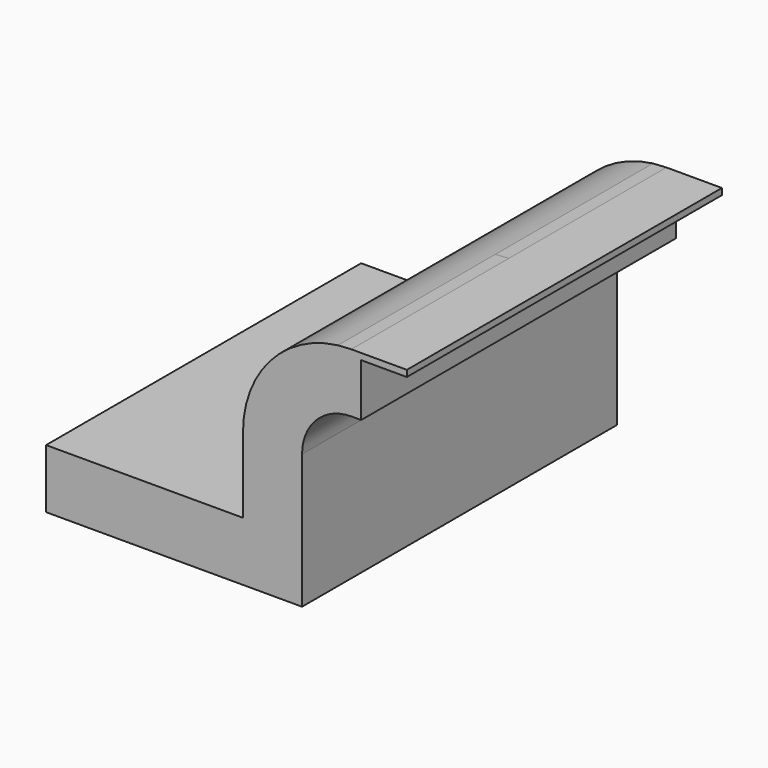
from build123d import *

# Parameters (mm, degrees)
F1_DEPTH = 63.5


with BuildPart() as f1:
    # F0 (on Front) → F1 (new body, symmetric)
    with BuildSketch(Plane.XZ):
        Polygon((-41.275, 9.525), (-41.275, -9.525), (41.275, -9.525), (41.275, 9.525), (22.225, 9.525), align=None)
        with BuildLine():
            Line((22.225, 9.525), (41.275, 9.525))
            Line((41.275, 9.525), (41.275, 33.799117))
            ThreePointArc((41.275, 33.799117), (45.92468, 45.024437), (57.15, 49.674117))
            Line((57.15, 49.674117), (60.325, 49.674117))
            Line((60.325, 49.674117), (60.325, 66.675))
            Line((60.325, 66.675), (75.065107, 66.675))
            Line((75.065107, 66.675), (75.065107, 68.724117))
            Line((75.065107, 68.724117), (57.15, 68.724117))
            add(Edge.make_bspline(
                [(57.15, 68.724117), (55.670657, 68.648754), (54.224595, 68.558388), (52.81074, 68.453502)],
                knots=[0, 0, 0, 0, 2.4695, 2.4695, 2.4695, 2.4695], degree=3))
            ThreePointArc((52.81074, 68.453502), (30.96504, 56.909796), (22.225, 33.799117))
            Line((22.225, 33.799117), (22.225, 9.525))
        make_face()
    extrude(amount=F1_DEPTH, both=True)


solid = f1.part
